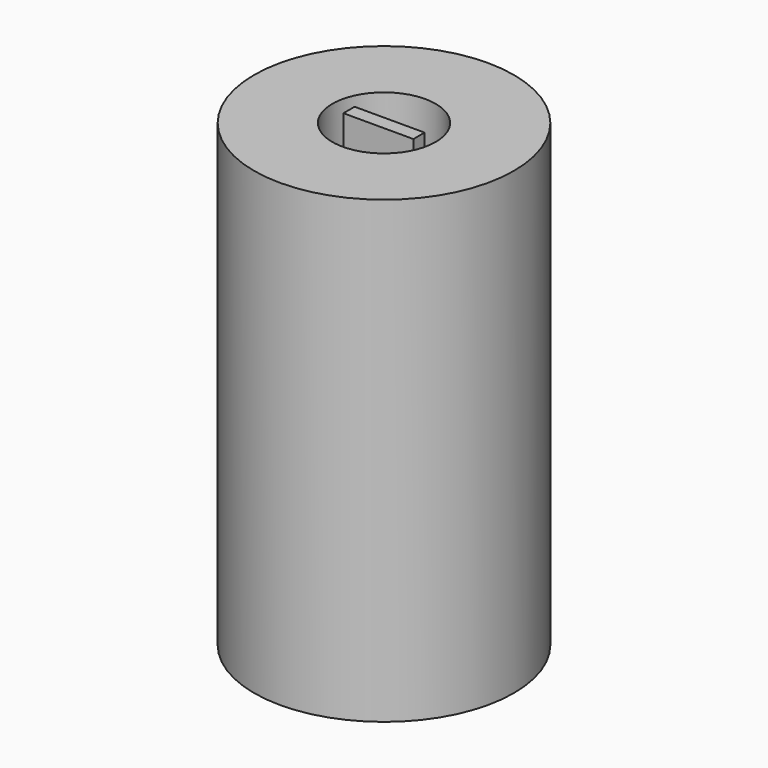
from build123d import *

# Parameters (mm, degrees)
F0_R     = 12.065
F1_DEPTH = 42.7
F2_R     = 4.8
F3_DEPTH = 10
F4_W     = 6.5
F4_H     = 1.3
F5_DEPTH = 10
F6_R     = 10
F7_DEPTH = 25


with BuildPart() as f1:
    # F0 (on Top) → F1 (new body)
    with BuildSketch(Plane.XY):
        Circle(F0_R)
        Circle(F0_R)
    extrude(amount=F1_DEPTH)

    # F2 (on face) → F3 (cut)
    with BuildSketch(Plane.XY.offset(42.7)):
        Circle(F2_R)
    extrude(amount=-F3_DEPTH, mode=Mode.SUBTRACT)

    # F4 (on face) → F5 (join)
    with BuildSketch(Plane.XY.offset(32.7)):
        Rectangle(F4_W, F4_H)
    extrude(amount=F5_DEPTH)

    # F6 (on face) → F7 (cut)
    with BuildSketch(Plane(origin=(0, 0, 0), x_dir=(1, 0, 0), z_dir=(0, 0, -1))):
        Circle(F6_R)
    extrude(amount=-F7_DEPTH, mode=Mode.SUBTRACT)


solid = f1.part
